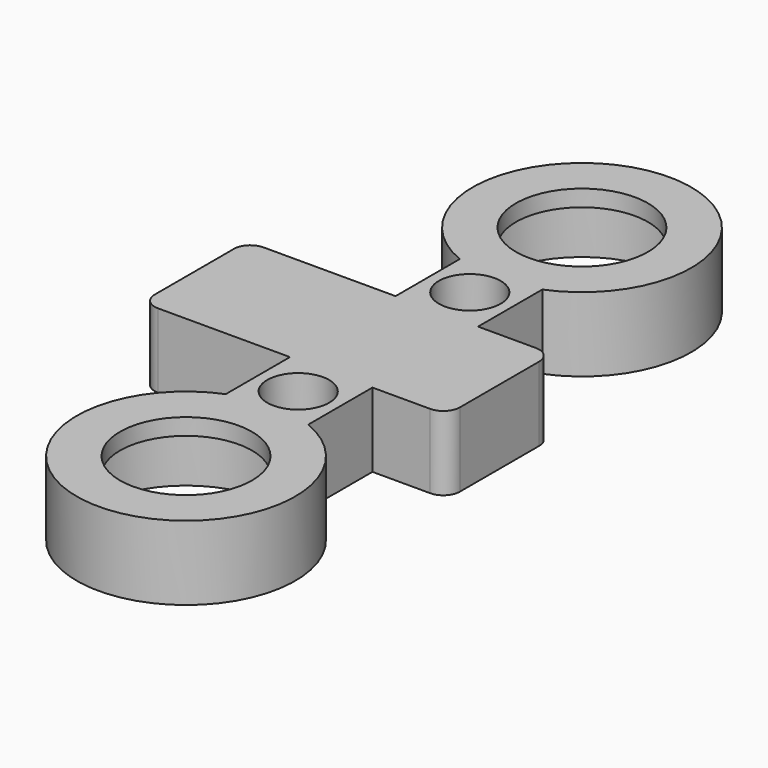
from build123d import *

# Parameters (mm, degrees)
PAD028_DEPTH            = 9
SKETCH075_R             = 11.25
POCKET028_DEPTH         = 7
SKETCH076_R             = 8
POCKET029_DEPTH         = 5
SKETCH077_W             = 16
SKETCH077_H             = 37
PAD029_DEPTH            = 9
SKETCH078_W             = 14
SKETCH078_H             = 35
POCKET030_DEPTH         = 1
SKETCH079_W             = 12
SKETCH079_H             = 33
POCKET031_DEPTH         = 5
SKETCH080_W             = 10
SKETCH080_H             = 4
POCKET032_DEPTH         = 5
HOLE007_D               = 4.5
HOLE007_DEPTH           = 25
HOLE007_CBORE_D         = 7.5
HOLE007_CBORE_DEPTH     = 4
FILLET006_R             = 2
BODY010_ROLL_ANGLE      = 180
BODY010_PLACEMENT_ANGLE = -90


with BuildPart() as part:
    # Sketch074 → Pad028 (new body)
    with BuildSketch(Plane.XY):
        with BuildLine():
            ThreePointArc((12.269609, 5), (-13.250782, 0), (12.269609, -5))
            Line((12.269609, -5), (47.729609, -5))
            ThreePointArc((47.729609, -5), (73.25, 0), (47.729609, 5))
            Line((12.269609, 5), (47.729609, 5))
        make_face()
    extrude(amount=PAD028_DEPTH)

    # Sketch075 (on Face6 of Pad028) → Pocket028 (cut)
    with BuildSketch(Plane.XY.offset(9)):
        Circle(SKETCH075_R)
        with Locations((60, 0)):
            Circle(SKETCH075_R)
    extrude(amount=-POCKET028_DEPTH, mode=Mode.SUBTRACT)

    # Sketch076 (on Face4 of Pocket028) → Pocket029 (cut)
    with BuildSketch(Plane(origin=(0, 0, 0), x_dir=(1, 0, 0), z_dir=(0, 0, -1))):
        Circle(SKETCH076_R)
        with Locations((60, 0)):
            Circle(SKETCH076_R)
    extrude(amount=-POCKET029_DEPTH, mode=Mode.SUBTRACT)

    # Sketch077 (on Face4 of Pocket029) → Pad029 (join)
    with BuildSketch(Plane(origin=(0, 0, 0), x_dir=(1, 0, 0), z_dir=(0, 0, -1))):
        with Locations((30, -4.5)):
            Rectangle(SKETCH077_W, SKETCH077_H)
    extrude(amount=-PAD029_DEPTH)

    # Sketch078 (on Face13 of Pad029) → Pocket030 (cut)
    with BuildSketch(Plane.XY.offset(9)):
        with Locations((30, 4.5)):
            Rectangle(SKETCH078_W, SKETCH078_H)
    extrude(amount=-POCKET030_DEPTH, mode=Mode.SUBTRACT)

    # Sketch079 (on Face22 of Pocket030) → Pocket031 (cut)
    with BuildSketch(Plane.XY.offset(9)):
        with Locations((30, 4.5)):
            Rectangle(SKETCH079_W, SKETCH079_H)
    extrude(amount=-POCKET031_DEPTH, mode=Mode.SUBTRACT)

    # Sketch080 (on Face14 of Pocket031) → Pocket032 (cut)
    with BuildSketch(Plane(origin=(0, 23, 0), x_dir=(-1, 0, 0), z_dir=(0, 1, 0))):
        with Locations((-30, 5)):
            Rectangle(SKETCH080_W, SKETCH080_H)
    extrude(amount=-POCKET032_DEPTH, mode=Mode.SUBTRACT)

    # Hole007
    with Locations(Plane(origin=(0, 0, 0), x_dir=(1, 0, 0), z_dir=(0, 0, -1))):
        with Locations((17, 0), (43, 0)):
            CounterBoreHole(HOLE007_D / 2, HOLE007_CBORE_D / 2, HOLE007_CBORE_DEPTH, depth=HOLE007_DEPTH)

    # Fillet006
    fillet006_edges = [part.edges().sort_by_distance(p)[0] for p in [
        (38, 23, 4.5),
        (22, 23, 4.5),
        (22, -14, 4.5),
        (38, -14, 4.5),
    ]]
    fillet(fillet006_edges, radius=FILLET006_R)


with BuildPart() as part_1:
    # Body010 roll: moved
    add(part.part.rotate(Axis((0, 0, 0), (1, 0, 0)), BODY010_ROLL_ANGLE))


with BuildPart() as part_2:
    # Body010 placement: moved
    add(part_1.part.moved(Location((0, 120, 46))).rotate(Axis((0, 120, 46), (0, 0, 1)), BODY010_PLACEMENT_ANGLE))


solid = part_2.part
